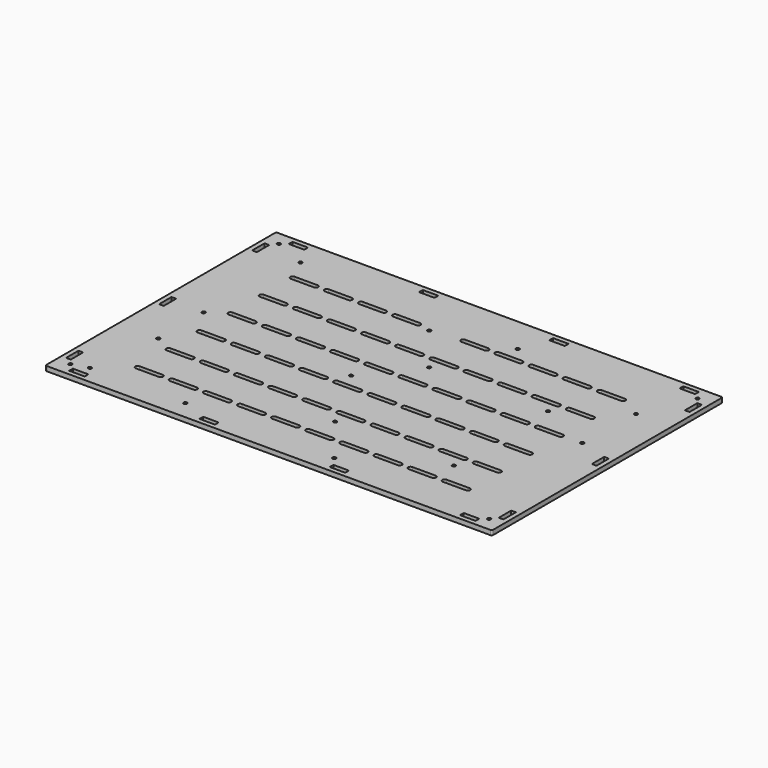
from build123d import *

# Parameters (mm, degrees)
F0_R     = 1.1
F0_W     = 10
F0_H     = 3
F0_W_2   = 3
F0_H_2   = 10
F1_DEPTH = 3


with BuildPart() as f1:
    # F0 (on Top) → F1 (new body)
    with BuildSketch(Plane.XY):
        with BuildLine():
            Line((293, 6), (293, 190))
            ThreePointArc((293, 190), (292.707107, 190.707107), (292, 191))
            Line((292, 191), (6, 191))
            ThreePointArc((6, 191), (5.292893, 190.707107), (5, 190))
            Line((5, 190), (5, 6))
            ThreePointArc((5, 6), (5.292893, 5.292893), (6, 5))
            Line((6, 5), (292, 5))
            ThreePointArc((292, 5), (292.707107, 5.292893), (293, 6))
        make_face()
        with Locations((14, 14)):
            Circle(F0_R, mode=Mode.SUBTRACT)
        with Locations((23, 9.5)):
            Rectangle(F0_W, F0_H, mode=Mode.SUBTRACT)
        with Locations((9.5, 23)):
            Rectangle(F0_W_2, F0_H_2, mode=Mode.SUBTRACT)
        with Locations((24.2, 17)):
            Circle(F0_R, mode=Mode.SUBTRACT)
        with BuildLine():
            Line((57.5, 31), (42.5, 31))
            ThreePointArc((42.5, 31), (41, 32.5), (42.5, 34))
            Line((42.5, 34), (57.5, 34))
            ThreePointArc((57.5, 34), (59, 32.5), (57.5, 31))
        make_face(mode=Mode.SUBTRACT)
        with BuildLine():
            Line((79.5, 31), (64.5, 31))
            ThreePointArc((64.5, 31), (63, 32.5), (64.5, 34))
            Line((64.5, 34), (79.5, 34))
            ThreePointArc((79.5, 34), (81, 32.5), (79.5, 31))
        make_face(mode=Mode.SUBTRACT)
        with Locations((107, 9.5)):
            Rectangle(F0_W, F0_H, mode=Mode.SUBTRACT)
        with Locations((85.7, 17)):
            Circle(F0_R, mode=Mode.SUBTRACT)
        with BuildLine():
            Line((101.5, 31), (86.5, 31))
            ThreePointArc((86.5, 31), (85, 32.5), (86.5, 34))
            Line((86.5, 34), (101.5, 34))
            ThreePointArc((101.5, 34), (103, 32.5), (101.5, 31))
        make_face(mode=Mode.SUBTRACT)
        with BuildLine():
            Line((123.5, 31), (108.5, 31))
            ThreePointArc((108.5, 31), (107, 32.5), (108.5, 34))
            Line((108.5, 34), (123.5, 34))
            ThreePointArc((123.5, 34), (125, 32.5), (123.5, 31))
        make_face(mode=Mode.SUBTRACT)
        with BuildLine():
            Line((145.5, 31), (130.5, 31))
            ThreePointArc((130.5, 31), (129, 32.5), (130.5, 34))
            Line((130.5, 34), (145.5, 34))
            ThreePointArc((145.5, 34), (147, 32.5), (145.5, 31))
        make_face(mode=Mode.SUBTRACT)
        with Locations((31.1, 63.5)):
            Circle(F0_R, mode=Mode.SUBTRACT)
        with BuildLine():
            Line((57.5, 56), (42.5, 56))
            ThreePointArc((42.5, 56), (41, 57.5), (42.5, 59))
            Line((42.5, 59), (57.5, 59))
            ThreePointArc((57.5, 59), (59, 57.5), (57.5, 56))
        make_face(mode=Mode.SUBTRACT)
        with BuildLine():
            Line((79.5, 56), (64.5, 56))
            ThreePointArc((64.5, 56), (63, 57.5), (64.5, 59))
            Line((64.5, 59), (79.5, 59))
            ThreePointArc((79.5, 59), (81, 57.5), (79.5, 56))
        make_face(mode=Mode.SUBTRACT)
        with BuildLine():
            Line((57.5, 81), (42.5, 81))
            ThreePointArc((42.5, 81), (41, 82.5), (42.5, 84))
            Line((42.5, 84), (57.5, 84))
            ThreePointArc((57.5, 84), (59, 82.5), (57.5, 81))
        make_face(mode=Mode.SUBTRACT)
        with BuildLine():
            Line((79.5, 81), (64.5, 81))
            ThreePointArc((64.5, 81), (63, 82.5), (64.5, 84))
            Line((64.5, 84), (79.5, 84))
            ThreePointArc((79.5, 84), (81, 82.5), (79.5, 81))
        make_face(mode=Mode.SUBTRACT)
        with BuildLine():
            Line((101.5, 56), (86.5, 56))
            ThreePointArc((86.5, 56), (85, 57.5), (86.5, 59))
            Line((86.5, 59), (101.5, 59))
            ThreePointArc((101.5, 59), (103, 57.5), (101.5, 56))
        make_face(mode=Mode.SUBTRACT)
        with BuildLine():
            Line((123.5, 56), (108.5, 56))
            ThreePointArc((108.5, 56), (107, 57.5), (108.5, 59))
            Line((108.5, 59), (123.5, 59))
            ThreePointArc((123.5, 59), (125, 57.5), (123.5, 56))
        make_face(mode=Mode.SUBTRACT)
        with BuildLine():
            Line((145.5, 56), (130.5, 56))
            ThreePointArc((130.5, 56), (129, 57.5), (130.5, 59))
            Line((130.5, 59), (145.5, 59))
            ThreePointArc((145.5, 59), (147, 57.5), (145.5, 56))
        make_face(mode=Mode.SUBTRACT)
        with BuildLine():
            Line((101.5, 81), (86.5, 81))
            ThreePointArc((86.5, 81), (85, 82.5), (86.5, 84))
            Line((86.5, 84), (101.5, 84))
            ThreePointArc((101.5, 84), (103, 82.5), (101.5, 81))
        make_face(mode=Mode.SUBTRACT)
        with BuildLine():
            Line((123.5, 81), (108.5, 81))
            ThreePointArc((108.5, 81), (107, 82.5), (108.5, 84))
            Line((108.5, 84), (123.5, 84))
            ThreePointArc((123.5, 84), (125, 82.5), (123.5, 81))
        make_face(mode=Mode.SUBTRACT)
        with BuildLine():
            Line((145.5, 81), (130.5, 81))
            ThreePointArc((130.5, 81), (129, 82.5), (130.5, 84))
            Line((130.5, 84), (145.5, 84))
            ThreePointArc((145.5, 84), (147, 82.5), (145.5, 81))
        make_face(mode=Mode.SUBTRACT)
        with Locations((132.2, 92.5)):
            Circle(F0_R, mode=Mode.SUBTRACT)
        with Locations((181.7, 17)):
            Circle(F0_R, mode=Mode.SUBTRACT)
        with Locations((191, 9.5)):
            Rectangle(F0_W, F0_H, mode=Mode.SUBTRACT)
        with BuildLine():
            Line((167.5, 31), (152.5, 31))
            ThreePointArc((152.5, 31), (151, 32.5), (152.5, 34))
            Line((152.5, 34), (167.5, 34))
            ThreePointArc((167.5, 34), (169, 32.5), (167.5, 31))
        make_face(mode=Mode.SUBTRACT)
        with BuildLine():
            Line((189.5, 31), (174.5, 31))
            ThreePointArc((174.5, 31), (173, 32.5), (174.5, 34))
            Line((174.5, 34), (189.5, 34))
            ThreePointArc((189.5, 34), (191, 32.5), (189.5, 31))
        make_face(mode=Mode.SUBTRACT)
        with Locations((157.2, 48.3)):
            Circle(F0_R, mode=Mode.SUBTRACT)
        with BuildLine():
            Line((211.5, 31), (196.5, 31))
            ThreePointArc((196.5, 31), (195, 32.5), (196.5, 34))
            Line((196.5, 34), (211.5, 34))
            ThreePointArc((211.5, 34), (213, 32.5), (211.5, 31))
        make_face(mode=Mode.SUBTRACT)
        with Locations((275, 9.5)):
            Rectangle(F0_W, F0_H, mode=Mode.SUBTRACT)
        with Locations((284, 14)):
            Circle(F0_R, mode=Mode.SUBTRACT)
        with Locations((288.5, 23)):
            Rectangle(F0_W_2, F0_H_2, mode=Mode.SUBTRACT)
        with BuildLine():
            Line((233.5, 31), (218.5, 31))
            ThreePointArc((218.5, 31), (217, 32.5), (218.5, 34))
            Line((218.5, 34), (233.5, 34))
            ThreePointArc((233.5, 34), (235, 32.5), (233.5, 31))
        make_face(mode=Mode.SUBTRACT)
        with BuildLine():
            Line((255.5, 31), (240.5, 31))
            ThreePointArc((240.5, 31), (239, 32.5), (240.5, 34))
            Line((240.5, 34), (255.5, 34))
            ThreePointArc((255.5, 34), (257, 32.5), (255.5, 31))
        make_face(mode=Mode.SUBTRACT)
        with Locations((233.8, 48.3)):
            Circle(F0_R, mode=Mode.SUBTRACT)
        with BuildLine():
            Line((167.5, 56), (152.5, 56))
            ThreePointArc((152.5, 56), (151, 57.5), (152.5, 59))
            Line((152.5, 59), (167.5, 59))
            ThreePointArc((167.5, 59), (169, 57.5), (167.5, 56))
        make_face(mode=Mode.SUBTRACT)
        with BuildLine():
            Line((189.5, 56), (174.5, 56))
            ThreePointArc((174.5, 56), (173, 57.5), (174.5, 59))
            Line((174.5, 59), (189.5, 59))
            ThreePointArc((189.5, 59), (191, 57.5), (189.5, 56))
        make_face(mode=Mode.SUBTRACT)
        with BuildLine():
            Line((211.5, 56), (196.5, 56))
            ThreePointArc((196.5, 56), (195, 57.5), (196.5, 59))
            Line((196.5, 59), (211.5, 59))
            ThreePointArc((211.5, 59), (213, 57.5), (211.5, 56))
        make_face(mode=Mode.SUBTRACT)
        with BuildLine():
            Line((167.5, 81), (152.5, 81))
            ThreePointArc((152.5, 81), (151, 82.5), (152.5, 84))
            Line((152.5, 84), (167.5, 84))
            ThreePointArc((167.5, 84), (169, 82.5), (167.5, 81))
        make_face(mode=Mode.SUBTRACT)
        with BuildLine():
            Line((189.5, 81), (174.5, 81))
            ThreePointArc((174.5, 81), (173, 82.5), (174.5, 84))
            Line((174.5, 84), (189.5, 84))
            ThreePointArc((189.5, 84), (191, 82.5), (189.5, 81))
        make_face(mode=Mode.SUBTRACT)
        with BuildLine():
            Line((211.5, 81), (196.5, 81))
            ThreePointArc((196.5, 81), (195, 82.5), (196.5, 84))
            Line((196.5, 84), (211.5, 84))
            ThreePointArc((211.5, 84), (213, 82.5), (211.5, 81))
        make_face(mode=Mode.SUBTRACT)
        with BuildLine():
            Line((233.5, 56), (218.5, 56))
            ThreePointArc((218.5, 56), (217, 57.5), (218.5, 59))
            Line((218.5, 59), (233.5, 59))
            ThreePointArc((233.5, 59), (235, 57.5), (233.5, 56))
        make_face(mode=Mode.SUBTRACT)
        with BuildLine():
            Line((255.5, 56), (240.5, 56))
            ThreePointArc((240.5, 56), (239, 57.5), (240.5, 59))
            Line((240.5, 59), (255.5, 59))
            ThreePointArc((255.5, 59), (257, 57.5), (255.5, 56))
        make_face(mode=Mode.SUBTRACT)
        with BuildLine():
            Line((233.5, 81), (218.5, 81))
            ThreePointArc((218.5, 81), (217, 82.5), (218.5, 84))
            Line((218.5, 84), (233.5, 84))
            ThreePointArc((233.5, 84), (235, 82.5), (233.5, 81))
        make_face(mode=Mode.SUBTRACT)
        with BuildLine():
            Line((255.5, 81), (240.5, 81))
            ThreePointArc((240.5, 81), (239, 82.5), (240.5, 84))
            Line((240.5, 84), (255.5, 84))
            ThreePointArc((255.5, 84), (257, 82.5), (255.5, 81))
        make_face(mode=Mode.SUBTRACT)
        with Locations((9.5, 98)):
            Rectangle(F0_W_2, F0_H_2, mode=Mode.SUBTRACT)
        with Locations((31.1, 100)):
            Circle(F0_R, mode=Mode.SUBTRACT)
        with BuildLine():
            Line((57.5, 106), (42.5, 106))
            ThreePointArc((42.5, 106), (41, 107.5), (42.5, 109))
            Line((42.5, 109), (57.5, 109))
            ThreePointArc((57.5, 109), (59, 107.5), (57.5, 106))
        make_face(mode=Mode.SUBTRACT)
        with BuildLine():
            Line((79.5, 106), (64.5, 106))
            ThreePointArc((64.5, 106), (63, 107.5), (64.5, 109))
            Line((64.5, 109), (79.5, 109))
            ThreePointArc((79.5, 109), (81, 107.5), (79.5, 106))
        make_face(mode=Mode.SUBTRACT)
        with BuildLine():
            Line((57.5, 131), (42.5, 131))
            ThreePointArc((42.5, 131), (41, 132.5), (42.5, 134))
            Line((42.5, 134), (57.5, 134))
            ThreePointArc((57.5, 134), (59, 132.5), (57.5, 131))
        make_face(mode=Mode.SUBTRACT)
        with BuildLine():
            Line((79.5, 131), (64.5, 131))
            ThreePointArc((64.5, 131), (63, 132.5), (64.5, 134))
            Line((64.5, 134), (79.5, 134))
            ThreePointArc((79.5, 134), (81, 132.5), (79.5, 131))
        make_face(mode=Mode.SUBTRACT)
        with BuildLine():
            Line((101.5, 106), (86.5, 106))
            ThreePointArc((86.5, 106), (85, 107.5), (86.5, 109))
            Line((86.5, 109), (101.5, 109))
            ThreePointArc((101.5, 109), (103, 107.5), (101.5, 106))
        make_face(mode=Mode.SUBTRACT)
        with BuildLine():
            Line((123.5, 106), (108.5, 106))
            ThreePointArc((108.5, 106), (107, 107.5), (108.5, 109))
            Line((108.5, 109), (123.5, 109))
            ThreePointArc((123.5, 109), (125, 107.5), (123.5, 106))
        make_face(mode=Mode.SUBTRACT)
        with BuildLine():
            Line((145.5, 106), (130.5, 106))
            ThreePointArc((130.5, 106), (129, 107.5), (130.5, 109))
            Line((130.5, 109), (145.5, 109))
            ThreePointArc((145.5, 109), (147, 107.5), (145.5, 106))
        make_face(mode=Mode.SUBTRACT)
        with BuildLine():
            Line((101.5, 131), (86.5, 131))
            ThreePointArc((86.5, 131), (85, 132.5), (86.5, 134))
            Line((86.5, 134), (101.5, 134))
            ThreePointArc((101.5, 134), (103, 132.5), (101.5, 131))
        make_face(mode=Mode.SUBTRACT)
        with BuildLine():
            Line((123.5, 131), (108.5, 131))
            ThreePointArc((108.5, 131), (107, 132.5), (108.5, 134))
            Line((108.5, 134), (123.5, 134))
            ThreePointArc((123.5, 134), (125, 132.5), (123.5, 131))
        make_face(mode=Mode.SUBTRACT)
        with BuildLine():
            Line((145.5, 131), (130.5, 131))
            ThreePointArc((130.5, 131), (129, 132.5), (130.5, 134))
            Line((130.5, 134), (145.5, 134))
            ThreePointArc((145.5, 134), (147, 132.5), (145.5, 131))
        make_face(mode=Mode.SUBTRACT)
        with BuildLine():
            Line((57.5, 156), (42.5, 156))
            ThreePointArc((42.5, 156), (41, 157.5), (42.5, 159))
            Line((42.5, 159), (57.5, 159))
            ThreePointArc((57.5, 159), (59, 157.5), (57.5, 156))
        make_face(mode=Mode.SUBTRACT)
        with BuildLine():
            Line((79.5, 156), (64.5, 156))
            ThreePointArc((64.5, 156), (63, 157.5), (64.5, 159))
            Line((64.5, 159), (79.5, 159))
            ThreePointArc((79.5, 159), (81, 157.5), (79.5, 156))
        make_face(mode=Mode.SUBTRACT)
        with Locations((9.5, 173)):
            Rectangle(F0_W_2, F0_H_2, mode=Mode.SUBTRACT)
        with Locations((35.2, 173)):
            Circle(F0_R, mode=Mode.SUBTRACT)
        with Locations((14, 182)):
            Circle(F0_R, mode=Mode.SUBTRACT)
        with Locations((23, 186.5)):
            Rectangle(F0_W, F0_H, mode=Mode.SUBTRACT)
        with BuildLine():
            Line((101.5, 156), (86.5, 156))
            ThreePointArc((86.5, 156), (85, 157.5), (86.5, 159))
            Line((86.5, 159), (101.5, 159))
            ThreePointArc((101.5, 159), (103, 157.5), (101.5, 156))
        make_face(mode=Mode.SUBTRACT)
        with Locations((132.2, 155.5)):
            Circle(F0_R, mode=Mode.SUBTRACT)
        with BuildLine():
            Line((123.5, 156), (108.5, 156))
            ThreePointArc((108.5, 156), (107, 157.5), (108.5, 159))
            Line((108.5, 159), (123.5, 159))
            ThreePointArc((123.5, 159), (125, 157.5), (123.5, 156))
        make_face(mode=Mode.SUBTRACT)
        with Locations((107, 186.5)):
            Rectangle(F0_W, F0_H, mode=Mode.SUBTRACT)
        with BuildLine():
            Line((167.5, 106), (152.5, 106))
            ThreePointArc((152.5, 106), (151, 107.5), (152.5, 109))
            Line((152.5, 109), (167.5, 109))
            ThreePointArc((167.5, 109), (169, 107.5), (167.5, 106))
        make_face(mode=Mode.SUBTRACT)
        with BuildLine():
            Line((189.5, 106), (174.5, 106))
            ThreePointArc((174.5, 106), (173, 107.5), (174.5, 109))
            Line((174.5, 109), (189.5, 109))
            ThreePointArc((189.5, 109), (191, 107.5), (189.5, 106))
        make_face(mode=Mode.SUBTRACT)
        with BuildLine():
            Line((211.5, 106), (196.5, 106))
            ThreePointArc((196.5, 106), (195, 107.5), (196.5, 109))
            Line((196.5, 109), (211.5, 109))
            ThreePointArc((211.5, 109), (213, 107.5), (211.5, 106))
        make_face(mode=Mode.SUBTRACT)
        with Locations((157.2, 124.15)):
            Circle(F0_R, mode=Mode.SUBTRACT)
        with BuildLine():
            Line((167.5, 131), (152.5, 131))
            ThreePointArc((152.5, 131), (151, 132.5), (152.5, 134))
            Line((152.5, 134), (167.5, 134))
            ThreePointArc((167.5, 134), (169, 132.5), (167.5, 131))
        make_face(mode=Mode.SUBTRACT)
        with BuildLine():
            Line((189.5, 131), (174.5, 131))
            ThreePointArc((174.5, 131), (173, 132.5), (174.5, 134))
            Line((174.5, 134), (189.5, 134))
            ThreePointArc((189.5, 134), (191, 132.5), (189.5, 131))
        make_face(mode=Mode.SUBTRACT)
        with BuildLine():
            Line((211.5, 131), (196.5, 131))
            ThreePointArc((196.5, 131), (195, 132.5), (196.5, 134))
            Line((196.5, 134), (211.5, 134))
            ThreePointArc((211.5, 134), (213, 132.5), (211.5, 131))
        make_face(mode=Mode.SUBTRACT)
        with BuildLine():
            Line((233.5, 106), (218.5, 106))
            ThreePointArc((218.5, 106), (217, 107.5), (218.5, 109))
            Line((218.5, 109), (233.5, 109))
            ThreePointArc((233.5, 109), (235, 107.5), (233.5, 106))
        make_face(mode=Mode.SUBTRACT)
        with BuildLine():
            Line((255.5, 106), (240.5, 106))
            ThreePointArc((240.5, 106), (239, 107.5), (240.5, 109))
            Line((240.5, 109), (255.5, 109))
            ThreePointArc((255.5, 109), (257, 107.5), (255.5, 106))
        make_face(mode=Mode.SUBTRACT)
        with Locations((268.86, 107.9)):
            Circle(F0_R, mode=Mode.SUBTRACT)
        with Locations((288.5, 98)):
            Rectangle(F0_W_2, F0_H_2, mode=Mode.SUBTRACT)
        with Locations((233.8, 124.15)):
            Circle(F0_R, mode=Mode.SUBTRACT)
        with BuildLine():
            Line((233.5, 131), (218.5, 131))
            ThreePointArc((218.5, 131), (217, 132.5), (218.5, 134))
            Line((218.5, 134), (233.5, 134))
            ThreePointArc((233.5, 134), (235, 132.5), (233.5, 131))
        make_face(mode=Mode.SUBTRACT)
        with BuildLine():
            Line((255.5, 131), (240.5, 131))
            ThreePointArc((240.5, 131), (239, 132.5), (240.5, 134))
            Line((240.5, 134), (255.5, 134))
            ThreePointArc((255.5, 134), (257, 132.5), (255.5, 131))
        make_face(mode=Mode.SUBTRACT)
        with BuildLine():
            Line((167.5, 156), (152.5, 156))
            ThreePointArc((152.5, 156), (151, 157.5), (152.5, 159))
            Line((152.5, 159), (167.5, 159))
            ThreePointArc((167.5, 159), (169, 157.5), (167.5, 156))
        make_face(mode=Mode.SUBTRACT)
        with BuildLine():
            Line((189.5, 156), (174.5, 156))
            ThreePointArc((174.5, 156), (173, 157.5), (174.5, 159))
            Line((174.5, 159), (189.5, 159))
            ThreePointArc((189.5, 159), (191, 157.5), (189.5, 156))
        make_face(mode=Mode.SUBTRACT)
        with Locations((179.5, 167.6)):
            Circle(F0_R, mode=Mode.SUBTRACT)
        with BuildLine():
            Line((211.5, 156), (196.5, 156))
            ThreePointArc((196.5, 156), (195, 157.5), (196.5, 159))
            Line((196.5, 159), (211.5, 159))
            ThreePointArc((211.5, 159), (213, 157.5), (211.5, 156))
        make_face(mode=Mode.SUBTRACT)
        with Locations((191, 186.5)):
            Rectangle(F0_W, F0_H, mode=Mode.SUBTRACT)
        with BuildLine():
            Line((233.5, 156), (218.5, 156))
            ThreePointArc((218.5, 156), (217, 157.5), (218.5, 159))
            Line((218.5, 159), (233.5, 159))
            ThreePointArc((233.5, 159), (235, 157.5), (233.5, 156))
        make_face(mode=Mode.SUBTRACT)
        with BuildLine():
            Line((255.5, 156), (240.5, 156))
            ThreePointArc((240.5, 156), (239, 157.5), (240.5, 159))
            Line((240.5, 159), (255.5, 159))
            ThreePointArc((255.5, 159), (257, 157.5), (255.5, 156))
        make_face(mode=Mode.SUBTRACT)
        with Locations((270.3, 149.4)):
            Circle(F0_R, mode=Mode.SUBTRACT)
        with Locations((288.5, 173)):
            Rectangle(F0_W_2, F0_H_2, mode=Mode.SUBTRACT)
        with Locations((284, 182)):
            Circle(F0_R, mode=Mode.SUBTRACT)
        with Locations((275, 186.5)):
            Rectangle(F0_W, F0_H, mode=Mode.SUBTRACT)
    extrude(amount=F1_DEPTH)


solid = f1.part
